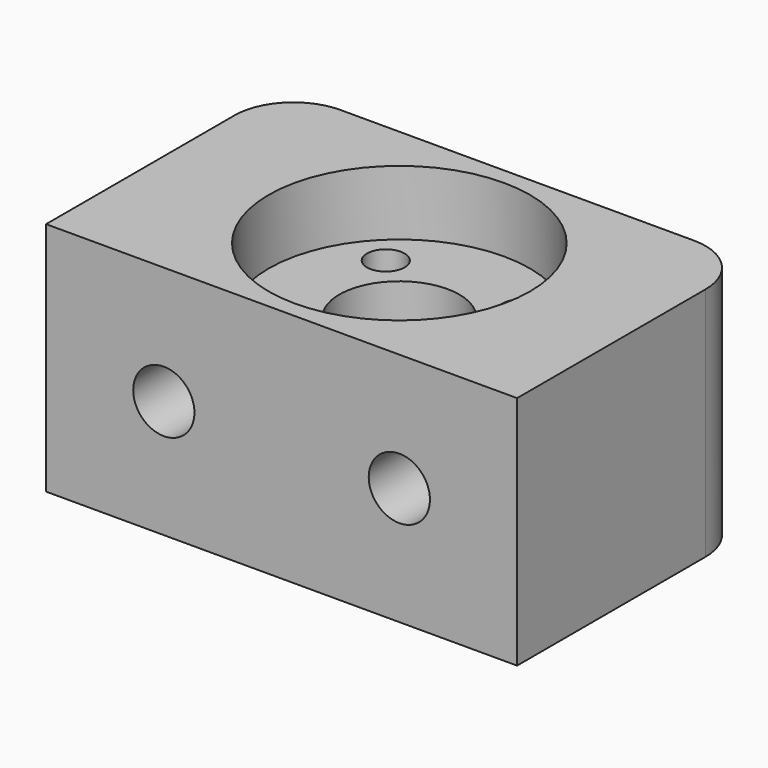
from build123d import *

# Parameters (mm, degrees)
F0_W      = 40
F0_H      = 25
F0_R      = 1.6
F0_R_2    = 5.1
F1_DEPTH  = 20
F2_R      = 5
F3_R      = 11.1
F4_DEPTH  = 5.5
F5_R      = 1.6
F6_DEPTH  = 5
F7_R      = 2.6
F8_DEPTH  = 25.001
F9_R      = 4.5
F9_R_2    = 2.6
F10_DEPTH = 5


with BuildPart() as f1:
    # F0 (on Top) → F1 (new body)
    with BuildSketch(Plane.XY):
        Rectangle(F0_W, F0_H)
        with Locations((-5.75, -5.75)):
            Circle(F0_R, mode=Mode.SUBTRACT)
        with Locations((5.75, -5.75)):
            Circle(F0_R, mode=Mode.SUBTRACT)
        with Locations((-5.75, 5.75)):
            Circle(F0_R, mode=Mode.SUBTRACT)
        Circle(F0_R_2, mode=Mode.SUBTRACT)
        with Locations((5.75, 5.75)):
            Circle(F0_R, mode=Mode.SUBTRACT)
    extrude(amount=F1_DEPTH)

    # F2
    f2_edges = [f1.edges().sort_by_distance(p)[0] for p in [
        (20, 12.5, 10),
        (-20, 12.5, 10),
    ]]
    fillet(f2_edges, radius=F2_R)

    # F3 (on face) → F4 (cut)
    with BuildSketch(Plane.XY.offset(20)):
        Circle(F3_R)
    extrude(amount=-F4_DEPTH, mode=Mode.SUBTRACT)

    # F5 (on face) → F6 (cut)
    with BuildSketch(Plane(origin=(0, 0, 0), x_dir=(1, 0, 0), z_dir=(0, 0, -1))):
        Polygon((8.7, 7.423624), (5.735692, 8.977306), (2.8, 7.438623), (2.8, 4.076827), (5.75, 2.530645), (8.7, 4.076827), align=None)
        Polygon((8.7, -4.076376), (5.735692, -2.522694), (2.8, -4.061377), (2.8, -7.423173), (5.75, -8.969355), (8.7, -7.423173), align=None)
        with Locations((5.75, -5.75)):
            Circle(F5_R, mode=Mode.SUBTRACT)
        Polygon((-2.8, -4.076376), (-5.764308, -2.522694), (-8.7, -4.061377), (-8.7, -7.423173), (-5.75, -8.969355), (-2.8, -7.423173), align=None)
        with Locations((-5.75, -5.75)):
            Circle(F5_R, mode=Mode.SUBTRACT)
        Polygon((-2.8, 7.423624), (-5.764308, 8.977306), (-8.7, 7.438623), (-8.7, 4.076827), (-5.75, 2.530645), (-2.8, 4.076827), align=None)
        with Locations((-5.75, 5.75)):
            Circle(F5_R, mode=Mode.SUBTRACT)
    extrude(amount=-F6_DEPTH, mode=Mode.SUBTRACT)

    # F7 (on face) → F8 (cut, through all)
    with BuildSketch(Plane(origin=(0, 12.5, 0), x_dir=(-1, 0, 0), z_dir=(0, 1, 0))):
        with Locations((-10, 10)):
            Circle(F7_R)
        with Locations((10, 10)):
            Circle(F7_R)
    extrude(amount=-F8_DEPTH, mode=Mode.SUBTRACT)

    # F9 (on face) → F10 (cut)
    with BuildSketch(Plane(origin=(0, 12.5, 0), x_dir=(-1, 0, 0), z_dir=(0, 1, 0))):
        with Locations((10, 10)):
            Circle(F9_R)
        with Locations((10, 10)):
            Circle(F9_R_2, mode=Mode.SUBTRACT)
        with Locations((-10, 10)):
            Circle(F9_R)
        with Locations((-10, 10)):
            Circle(F9_R_2, mode=Mode.SUBTRACT)
    extrude(amount=-F10_DEPTH, mode=Mode.SUBTRACT)


solid = f1.part
